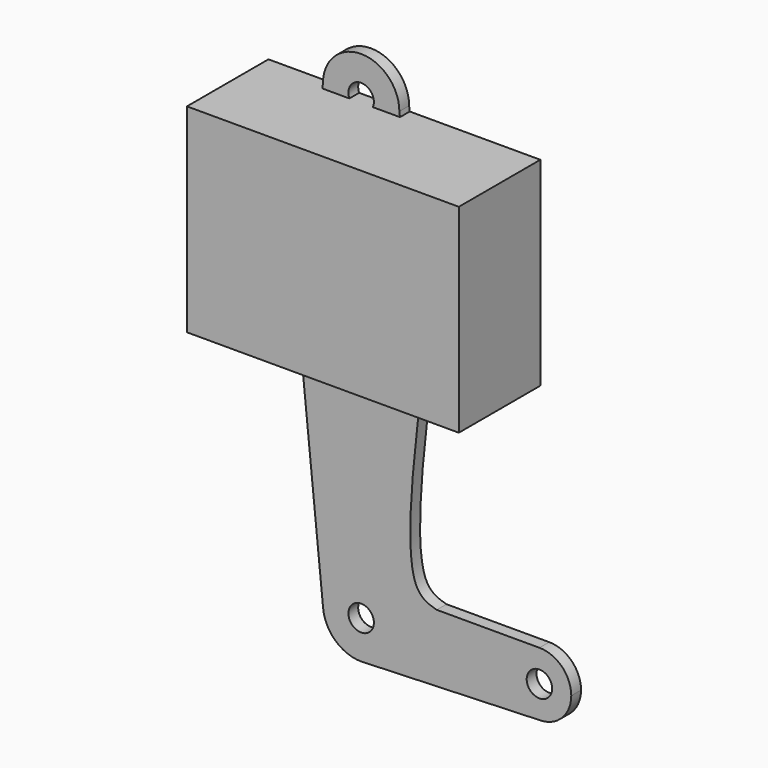
from build123d import *

# Parameters (mm, degrees)
F0_R     = 1.5875
F0_R_2   = 3.175
F1_DEPTH = 3.048
F3_DEPTH = 25.4


with BuildPart() as f1:
    # F0 (on Front) → F1 (new body)
    with BuildSketch(Plane.XZ):
        with BuildLine():
            ThreePointArc((0, -15.875), (11.2253201513, -11.2253201513), (15.875, 0))
            ThreePointArc((15.875, 0), (15.8430821306, 1.0061677811), (15.7474568688, 2.0082896118))
            ThreePointArc((15.7474568688, 2.0082896118), (10.4912827484, 11.9142188705), (0, 15.875))
            Line((0, 15.875), (0, 3.175))
            ThreePointArc((0, 3.175), (2.2450640303, 2.2450640303), (3.175, 0))
            ThreePointArc((3.175, 0), (2.2450640303, -2.2450640303), (0, -3.175))
            Line((0, -3.175), (0, -15.875))
        make_face()
        with BuildLine():
            ThreePointArc((15.7474568688, 2.0082896118), (15.8430821306, 1.0061677811), (15.875, 0))
            ThreePointArc((15.875, 0), (11.2253201513, -11.2253201513), (0, -15.875))
            Line((0, -15.875), (0, -53.975))
            ThreePointArc((0, -53.975), (6.7351920908, -56.7648079092), (9.525, -63.5))
            ThreePointArc((9.525, -63.5), (6.9712901065, -69.9905114784), (0.6794904459, -73.0007324841))
            Line((0.6794904459, -73.0007324841), (44.45, -71.4375))
            ThreePointArc((44.45, -71.4375), (36.5125, -63.5), (44.45, -55.5625))
            Line((44.45, -55.5625), (18.8464820385, -55.5625))
            add(Edge.make_bspline(
                [(18.8464820385, -55.5625), (16.9357606523, -55.0097091598), (9.4372158473, -52.8403050213), (13.1997682789, -22.5625848825), (16.0035761028, 0)],
                knots=[0, 0, 0, 0, 0.2548122917, 1, 1, 1, 1], degree=3))
            Line((16.0035761028, 0), (15.7474568688, 2.0082896118))
        make_face()
        with BuildLine():
            ThreePointArc((0, 15.875), (10.4912827484, 11.9142188705), (15.7474568688, 2.0082896118))
            Line((15.7474568688, 2.0082896118), (9.525, 50.8))
            ThreePointArc((9.525, 50.8), (6.7351920908, 44.0648079092), (0, 41.275))
            Line((0, 41.275), (0, 15.875))
        make_face()
        with BuildLine():
            Line((0, -53.975), (0, -15.875))
            ThreePointArc((0, -15.875), (-10.634629101, -11.7864451335), (-15.7914295954, -1.6267686783))
            Line((-15.7914295954, -1.6267686783), (-9.4772560787, -64.4524926348))
            ThreePointArc((-9.4772560787, -64.4524926348), (-7.0639265761, -57.1104330094), (0, -53.975))
        make_face()
        with BuildLine():
            ThreePointArc((-15.7914295954, -1.6267686783), (-10.634629101, -11.7864451335), (0, -15.875))
            Line((0, -15.875), (0, -3.175))
            ThreePointArc((0, -3.175), (-3.175, 0), (0, 3.175))
            Line((0, 3.175), (0, 15.875))
            ThreePointArc((0, 15.875), (-10.4912827447, 11.9142188737), (-15.7474568676, 2.0082896216))
            ThreePointArc((-15.7474568676, 2.0082896216), (-15.8738386045, 0.192023326), (-15.7914295954, -1.6267686783))
        make_face()
        with BuildLine():
            ThreePointArc((-15.7474568676, 2.0082896216), (-10.4912827447, 11.9142188737), (0, 15.875))
            Line((0, 15.875), (0, 41.275))
            ThreePointArc((0, 41.275), (-6.7351920908, 44.0648079092), (-9.525, 50.8))
            Line((-9.525, 50.8), (-15.7474568676, 2.0082896216))
        make_face()
        with Locations((-1.9409962697, 36.5252)):
            Circle(F0_R, mode=Mode.SUBTRACT)
        with BuildLine():
            ThreePointArc((0, 41.275), (6.7351920908, 44.0648079092), (9.525, 50.8))
            ThreePointArc((9.525, 50.8), (0, 60.325), (-9.525, 50.8))
            ThreePointArc((-9.525, 50.8), (-6.7351920908, 44.0648079092), (0, 41.275))
        make_face()
        with BuildLine():
            ThreePointArc((3.175, 50.8), (2.2450640303, 48.5549359697), (0, 47.625))
            ThreePointArc((0, 47.625), (-2.2450640303, 53.0450640303), (3.175, 50.8))
        make_face(mode=Mode.SUBTRACT)
        with BuildLine():
            ThreePointArc((9.525, -63.5), (6.7351920908, -56.7648079092), (0, -53.975))
            ThreePointArc((0, -53.975), (-7.0639265761, -57.1104330094), (-9.4772560787, -64.4524926348))
            ThreePointArc((-9.4772560787, -64.4524926348), (-6.3895669906, -70.5639265761), (0, -73.025))
            Line((0, -73.025), (0.6794904459, -73.0007324841))
            ThreePointArc((0.6794904459, -73.0007324841), (6.9712901065, -69.9905114784), (9.525, -63.5))
        make_face()
        with BuildLine():
            ThreePointArc((3.175, -63.5), (-2.2450640303, -65.7450640303), (0, -60.325))
            ThreePointArc((0, -60.325), (2.2450640303, -61.2549359697), (3.175, -63.5))
        make_face(mode=Mode.SUBTRACT)
        with BuildLine():
            ThreePointArc((52.3875, -63.5), (50.0626600757, -57.8873399243), (44.45, -55.5625))
            ThreePointArc((44.45, -55.5625), (36.5125, -63.5), (44.45, -71.4375))
            ThreePointArc((44.45, -71.4375), (50.0626600757, -69.1126600757), (52.3875, -63.5))
        make_face()
        with Locations((44.45, -63.5)):
            Circle(F0_R_2, mode=Mode.SUBTRACT)
        with BuildLine():
            Line((0.6794904459, -73.0007324841), (0, -73.025))
            ThreePointArc((0, -73.025), (0.3399618281, -73.0189311877), (0.6794904459, -73.0007324841))
        make_face()
    extrude(amount=F1_DEPTH)

    # F2 (on Front) → F3 (join)
    with BuildSketch(Plane.XZ):
        Polygon((42.2361642122, 49.5914518833), (-25.550276041, 49.5914518833), (-25.550276041, 0), (42.2361642122, 0), (42.2361642122, 47.7479062974), align=None)
    extrude(amount=F3_DEPTH)


solid = f1.part
